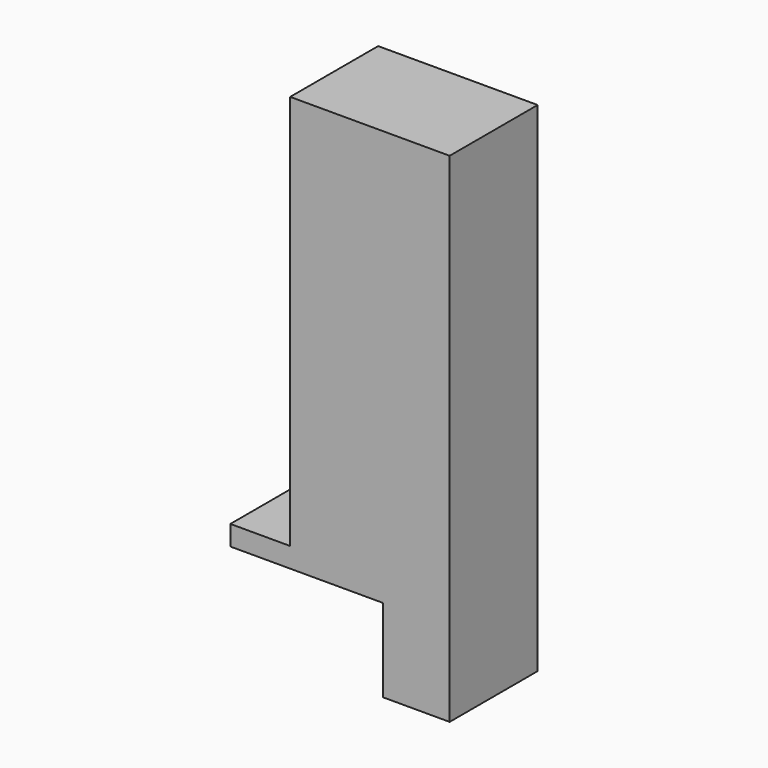
from build123d import *

# Parameters (mm, degrees)
BOX002_W     = 48
BOX002_H     = 33.1
BOX002_DEPTH = 125
BOX001_W     = 11
BOX001_H     = 33.1
BOX001_DEPTH = 31
BOX_W        = 66
BOX_H        = 33.1
BOX_DEPTH    = 6
BOX003_W     = 10
BOX003_H     = 33.1
BOX003_DEPTH = 31


with BuildPart() as cubo002:
    # Box002 → Box002 (new body)
    with BuildSketch(Plane(origin=(18, 0, 0), x_dir=(1, 0, 0), z_dir=(0, 0, 1))):
        with Locations((24, 16.55)):
            Rectangle(BOX002_W, BOX002_H)
    extrude(amount=BOX002_DEPTH)


with BuildPart() as cubo001:
    # Box001 → Box001 (new body)
    with BuildSketch(Plane(origin=(46, 0, -25), x_dir=(1, 0, 0), z_dir=(0, 0, 1))):
        with Locations((5.5, 16.55)):
            Rectangle(BOX001_W, BOX001_H)
    extrude(amount=BOX001_DEPTH)


with BuildPart() as cubo:
    # Box → Box (new body)
    with BuildSketch(Plane.XY):
        with Locations((33, 16.55)):
            Rectangle(BOX_W, BOX_H)
    extrude(amount=BOX_DEPTH)


with BuildPart() as fusion:
    # Box003 → Box003 (new body)
    with BuildSketch(Plane(origin=(56, 0, -25), x_dir=(1, 0, 0), z_dir=(0, 0, 1))):
        with Locations((5, 16.55)):
            Rectangle(BOX003_W, BOX003_H)
    extrude(amount=BOX003_DEPTH)

    # Fusion: union Cubo002, Cubo001, Cubo
    add(cubo002.part)
    add(cubo001.part)
    add(cubo.part)


solid = fusion.part
